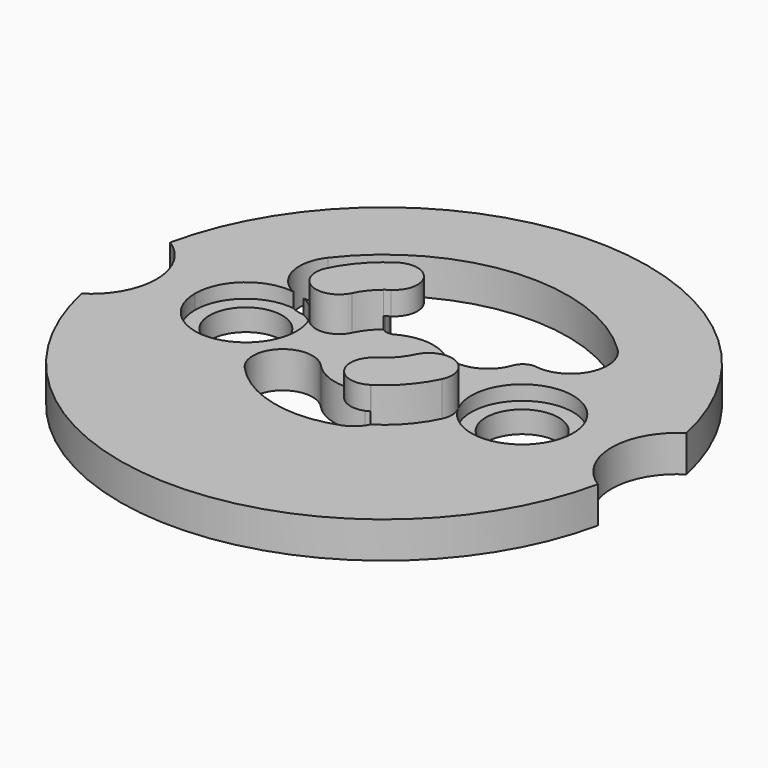
from build123d import *

# Parameters (mm, degrees)
F1_DEPTH = 2.5
F2_R     = 2.5
F2_R_2   = 3.5
F3_DEPTH = 1
F4_DEPTH = 25
F6_DEPTH = 2.4
F7_DEPTH = 0.8
F8_ANGLE = 180


with BuildPart() as f1:
    # F0 (on Top) → F1 (new body)
    with BuildSketch(Plane.XY):
        with BuildLine():
            ThreePointArc((-17.7467741935, 3.8045375176), (-15.65, 0), (-17.7467741935, -3.8045375176))
            ThreePointArc((-17.7467741935, -3.8045375176), (0, -18.15), (17.7467741935, -3.8045375176))
            ThreePointArc((17.7467741935, -3.8045375176), (15.65, 0), (17.7467741935, 3.8045375176))
            ThreePointArc((17.7467741935, 3.8045375176), (0, 18.15), (-17.7467741935, 3.8045375176))
        make_face()
        with BuildLine():
            ThreePointArc((2.4959380946, -2.3087427375), (5.3934479575, -2.1979674519), (5.5, -5.0956356923))
            ThreePointArc((5.5, -5.0956356923), (1.7016498657, -7.3374880505), (-2.7, -7.0566959612))
            ThreePointArc((-2.7, -7.0566959612), (-3.9459149151, -4.3705658168), (-1.241297598, -3.1653088749))
            ThreePointArc((-1.241297598, -3.1653088749), (0.7595769091, -3.3140674283), (2.4959380946, -2.3087427375))
        make_face(mode=Mode.SUBTRACT)
        with BuildLine():
            ThreePointArc((-8.7553190403, 9.1305469991), (0.952140072, 12.6141162704), (10.0266934622, 7.7128411247))
            ThreePointArc((10.0266934622, 7.7128411247), (9.5115151335, 3.7722871727), (5.5712685972, 4.2898114644))
            Line((5.5712685972, 4.2898114644), (5.5118136083, 4.3702173366))
            ThreePointArc((5.5118136083, 4.3702173366), (3.8930445069, 4.946510168), (2.7952312611, 3.6246429626))
            ThreePointArc((2.7952312611, 3.6246429626), (2.3794320778, 2.9889401783), (1.6198224227, 2.9893436268))
            ThreePointArc((1.6198224227, 2.9893436268), (-0.1325337371, 3.3974159016), (-1.8477750037, 2.8540720972))
            ThreePointArc((-1.8477750037, 2.8540720972), (-4.009187674, 2.5898113989), (-5.5508583046, 4.1275988078))
            ThreePointArc((-5.5508583046, 4.1275988078), (-5.9755788699, 4.654107591), (-6.6382950389, 4.7897775457))
            ThreePointArc((-6.6382950389, 4.7897775457), (-9.2794977325, 6.1882728138), (-8.7553190403, 9.1305469991))
        make_face(mode=Mode.SUBTRACT)
    extrude(amount=F1_DEPTH)

    # F2 (on face) → F3 (cut)
    with BuildSketch(Plane(origin=(0, 0, 0), x_dir=(1, 0, 0), z_dir=(0, 0, -1))):
        with BuildLine():
            ThreePointArc((9.0125481144, -3.4658895913), (11.7960747375, -2.6415981526), (13, 0))
            ThreePointArc((13, 0), (7.5843636972, 2.9292213224), (8.0969499684, -3.2064701166))
            ThreePointArc((8.0969499684, -3.2064701166), (8.5658137707, -3.297127868), (9.0125481144, -3.4658895913))
        make_face()
        with Locations((9.5, 0)):
            Circle(F2_R, mode=Mode.SUBTRACT)
        with Locations((-9.5, 0)):
            Circle(F2_R_2)
        with Locations((-9.5, 0)):
            Circle(F2_R, mode=Mode.SUBTRACT)
    extrude(amount=-F3_DEPTH, mode=Mode.SUBTRACT)

    # F2 (on face) → F4 (cut)
    with BuildSketch(Plane(origin=(0, 0, 0), x_dir=(1, 0, 0), z_dir=(0, 0, -1))):
        with Locations((9.5, 0)):
            Circle(F2_R)
        with Locations((-9.5, 0)):
            Circle(F2_R)
    extrude(amount=-F4_DEPTH, mode=Mode.SUBTRACT)

    # F5 (on face) → F6 (join)
    with BuildSketch(Plane(origin=(0, 0, 0), x_dir=(1, 0, 0), z_dir=(0, 0, -1))):
        with BuildLine():
            ThreePointArc((6.0601535804, -3.7943429711), (6.2633893685, -3.4485436953), (6.4469143417, -3.0918918919))
            ThreePointArc((6.4469143417, -3.0918918919), (6.6042114466, -2.4108440907), (6.4561602608, -1.7277267266))
            ThreePointArc((6.4561602608, -1.7277267266), (6.4124110495, -1.6482701455), (6.3707355238, -1.5677065536))
            ThreePointArc((6.3707355238, -1.5677065536), (4.9243798524, -0.8019946659), (3.5615820489, -1.7081081081))
            ThreePointArc((3.5615820489, -1.7081081081), (3.1023693948, -2.4449548335), (2.4932688314, -3.0636759839))
            ThreePointArc((2.4932688314, -3.0636759839), (2.7026586012, -3.3127187828), (2.7952312611, -3.6246429626))
            ThreePointArc((2.7952312611, -3.6246429626), (3.8930445069, -4.946510168), (5.5118136083, -4.3702173366))
            Line((5.5118136083, -4.3702173366), (5.5712685972, -4.2898114644))
            ThreePointArc((5.5712685972, -4.2898114644), (5.8003063385, -4.0268771571), (6.0601535804, -3.7943429711))
        make_face()
        with BuildLine():
            ThreePointArc((3.8959765845, -5.9953203795), (5.0982553244, -5.0130123326), (6.0601535804, -3.7943429711))
            ThreePointArc((6.0601535804, -3.7943429711), (5.8003063385, -4.0268771571), (5.5712685972, -4.2898114644))
            Line((5.5712685972, -4.2898114644), (5.5118136083, -4.3702173366))
            ThreePointArc((5.5118136083, -4.3702173366), (3.8930445069, -4.946510168), (2.7952312611, -3.6246429626))
            ThreePointArc((2.7952312611, -3.6246429626), (2.7026586012, -3.3127187828), (2.4932688314, -3.0636759839))
            ThreePointArc((2.4932688314, -3.0636759839), (2.3261145429, -3.192442816), (2.1523227285, -3.3121000698))
            ThreePointArc((2.1523227285, -3.3121000698), (1.6825395016, -5.5255371527), (3.8959765845, -5.9953203795))
        make_face()
        with BuildLine():
            ThreePointArc((-3.8662701246, 6.0141635011), (-3.8811751433, 6.0048235859), (-3.8959765845, 5.9953203795))
            ThreePointArc((-3.8959765845, 5.9953203795), (-5.3713427021, 4.7192348508), (-6.4469143417, 3.0918918919))
            ThreePointArc((-6.4469143417, 3.0918918919), (-6.6042114466, 2.4108440907), (-6.4561602608, 1.7277267266))
            ThreePointArc((-6.4561602608, 1.7277267266), (-6.4124110495, 1.6482701455), (-6.3707355238, 1.5677065536))
            ThreePointArc((-6.3707355238, 1.5677065536), (-4.9243798524, 0.8019946659), (-3.5615820489, 1.7081081081))
            ThreePointArc((-3.5615820489, 1.7081081081), (-3.0956887113, 2.4534081198), (-2.4765181166, 3.0772322009))
            ThreePointArc((-2.4765181166, 3.0772322009), (-3.8784449822, 4.2111223181), (-3.8662701246, 6.0141635011))
        make_face()
        with BuildLine():
            ThreePointArc((-3.8662701246, 6.0141635011), (-3.8811751433, 6.0048235859), (-3.8959765845, 5.9953203795))
            ThreePointArc((-3.8959765845, 5.9953203795), (-5.3713427021, 4.7192348508), (-6.4469143417, 3.0918918919))
            ThreePointArc((-6.4469143417, 3.0918918919), (-6.6042114466, 2.4108440907), (-6.4561602608, 1.7277267266))
            ThreePointArc((-6.4561602608, 1.7277267266), (-6.4124110495, 1.6482701455), (-6.3707355238, 1.5677065536))
            ThreePointArc((-6.3707355238, 1.5677065536), (-4.9243798524, 0.8019946659), (-3.5615820489, 1.7081081081))
            ThreePointArc((-3.5615820489, 1.7081081081), (-3.0956887113, 2.4534081198), (-2.4765181166, 3.0772322009))
            ThreePointArc((-2.4765181166, 3.0772322009), (-3.8784449822, 4.2111223181), (-3.8662701246, 6.0141635011))
        make_face()
        with BuildLine():
            ThreePointArc((-2.1523227285, 3.3121000698), (-1.6730362952, 5.5107357114), (-3.8662701246, 6.0141635011))
            ThreePointArc((-3.8662701246, 6.0141635011), (-3.8784449822, 4.2111223181), (-2.4765181166, 3.0772322009))
            ThreePointArc((-2.4765181166, 3.0772322009), (-2.3173978125, 3.1987759188), (-2.1523227285, 3.3121000698))
        make_face()
        with BuildLine():
            ThreePointArc((-3.8662701246, 6.0141635011), (-3.8811751433, 6.0048235859), (-3.8959765845, 5.9953203795))
            ThreePointArc((-3.8959765845, 5.9953203795), (-5.3713427021, 4.7192348508), (-6.4469143417, 3.0918918919))
            ThreePointArc((-6.4469143417, 3.0918918919), (-6.6042114466, 2.4108440907), (-6.4561602608, 1.7277267266))
            ThreePointArc((-6.4561602608, 1.7277267266), (-6.4124110495, 1.6482701455), (-6.3707355238, 1.5677065536))
            ThreePointArc((-6.3707355238, 1.5677065536), (-4.9243798524, 0.8019946659), (-3.5615820489, 1.7081081081))
            ThreePointArc((-3.5615820489, 1.7081081081), (-3.0956887113, 2.4534081198), (-2.4765181166, 3.0772322009))
            ThreePointArc((-2.4765181166, 3.0772322009), (-3.8784449822, 4.2111223181), (-3.8662701246, 6.0141635011))
        make_face()
        with BuildLine():
            ThreePointArc((3.8959765845, -5.9953203795), (5.0982553244, -5.0130123326), (6.0601535804, -3.7943429711))
            ThreePointArc((6.0601535804, -3.7943429711), (5.8003063385, -4.0268771571), (5.5712685972, -4.2898114644))
            Line((5.5712685972, -4.2898114644), (5.5118136083, -4.3702173366))
            ThreePointArc((5.5118136083, -4.3702173366), (3.8930445069, -4.946510168), (2.7952312611, -3.6246429626))
            ThreePointArc((2.7952312611, -3.6246429626), (2.7026586012, -3.3127187828), (2.4932688314, -3.0636759839))
            ThreePointArc((2.4932688314, -3.0636759839), (2.3261145429, -3.192442816), (2.1523227285, -3.3121000698))
            ThreePointArc((2.1523227285, -3.3121000698), (1.6825395016, -5.5255371527), (3.8959765845, -5.9953203795))
        make_face()
        with BuildLine():
            ThreePointArc((6.0601535804, -3.7943429711), (6.2633893685, -3.4485436953), (6.4469143417, -3.0918918919))
            ThreePointArc((6.4469143417, -3.0918918919), (6.6042114466, -2.4108440907), (6.4561602608, -1.7277267266))
            ThreePointArc((6.4561602608, -1.7277267266), (6.4124110495, -1.6482701455), (6.3707355238, -1.5677065536))
            ThreePointArc((6.3707355238, -1.5677065536), (4.9243798524, -0.8019946659), (3.5615820489, -1.7081081081))
            ThreePointArc((3.5615820489, -1.7081081081), (3.1023693948, -2.4449548335), (2.4932688314, -3.0636759839))
            ThreePointArc((2.4932688314, -3.0636759839), (2.7026586012, -3.3127187828), (2.7952312611, -3.6246429626))
            ThreePointArc((2.7952312611, -3.6246429626), (3.8930445069, -4.946510168), (5.5118136083, -4.3702173366))
            Line((5.5118136083, -4.3702173366), (5.5712685972, -4.2898114644))
            ThreePointArc((5.5712685972, -4.2898114644), (5.8003063385, -4.0268771571), (6.0601535804, -3.7943429711))
        make_face()
    extrude(amount=F6_DEPTH)

    # F7 (cut): faces of the model
    f7_faces = [f1.faces().sort_by_distance(p)[0] for p in [
        (2.880203055, 4.9455389585, 0),
        (-2.7641546482, -4.7635377555, 0),
    ]]
    extrude(f7_faces, amount=-F7_DEPTH, mode=Mode.SUBTRACT)


with BuildPart() as f1_1:
    # F8: moved
    add(f1.part.rotate(Axis((0, 0, 0), (0, -1, 0)), F8_ANGLE))


solid = f1_1.part
